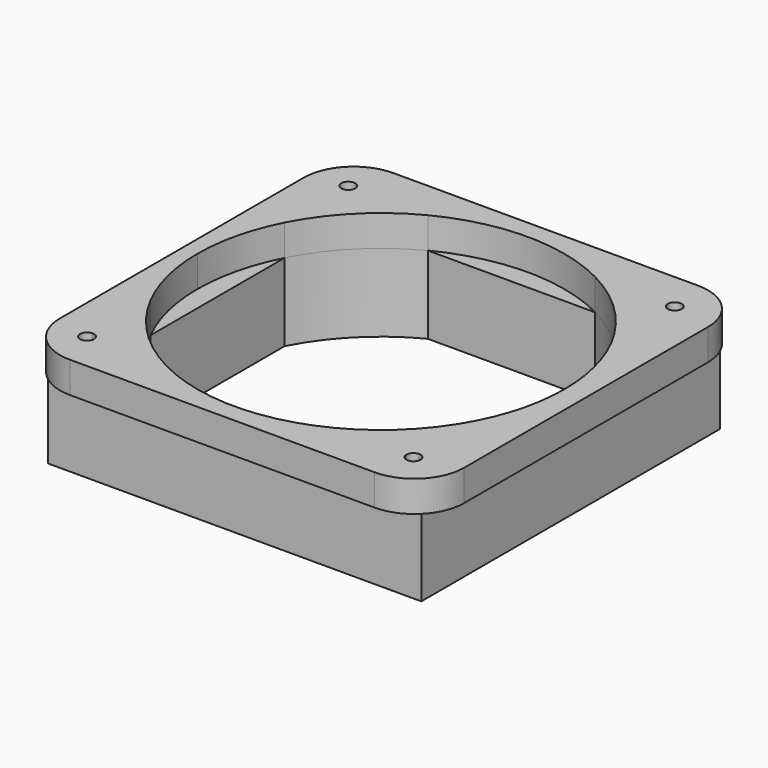
from build123d import *

# Parameters (mm, degrees)
F1_DEPTH = 25
F0_W     = 130
F0_H     = 130
F2_DEPTH = 10
F3_R     = 16


with BuildPart() as f1:
    # F0 (on Top) → F1 (new body)
    with BuildSketch(Plane.XY):
        Polygon((-59, -4.01e-08), (-59, -59.9999837577), (61, -59.9999837577), (61, 60.0000162423), (-59, 60.0000162423), align=None)
        with BuildLine():
            ThreePointArc((-52.5, -26.9211812519), (-57.351983396, -13.8473824436), (-59, -4.01e-08))
            ThreePointArc((-59, -4.01e-08), (-57.3519834055, 13.8473824047), (-52.5, 26.9211812519))
            Line((-52.5, 26.9211812519), (-52.5, 50.25))
            ThreePointArc((-52.5, 50.25), (-54.0909902577, 54.0909902577), (-50.25, 52.5))
            Line((-50.25, 52.5), (-26.9211812519, 52.5))
            ThreePointArc((-26.9211812519, 52.5), (0, 59), (26.9211812519, 52.5))
            Line((26.9211812519, 52.5), (50.25, 52.5))
            ThreePointArc((50.25, 52.5), (52.5, 54.75), (54.75, 52.5))
            ThreePointArc((54.75, 52.5), (54.0909902577, 50.9090097423), (52.5, 50.25))
            Line((52.5, 50.25), (52.5, 26.9211812519))
            ThreePointArc((52.5, 26.9211812519), (57.3519834008, 13.8473824241), (59, 0))
            ThreePointArc((59, 0), (57.3519834008, -13.8473824241), (52.5, -26.9211812519))
            Line((52.5, -26.9211812519), (52.5, -50.25))
            ThreePointArc((52.5, -50.25), (54.0909902577, -50.9090097423), (54.75, -52.5))
            ThreePointArc((54.75, -52.5), (52.5, -54.75), (50.25, -52.5))
            Line((50.25, -52.5), (26.9211812519, -52.5))
            ThreePointArc((26.9211812519, -52.5), (0, -59), (-26.9211812519, -52.5))
            Line((-26.9211812519, -52.5), (-50.25, -52.5))
            ThreePointArc((-50.25, -52.5), (-54.0909902577, -54.0909902577), (-52.5, -50.25))
            Line((-52.5, -50.25), (-52.5, -26.9211812519))
        make_face(mode=Mode.SUBTRACT)
        with BuildLine():
            Line((-52.5, 50.25), (-52.5, 26.9211812519))
            ThreePointArc((-52.5, 26.9211812519), (-41.71930009, 41.71930009), (-26.9211812519, 52.5))
            Line((-26.9211812519, 52.5), (-50.25, 52.5))
            ThreePointArc((-50.25, 52.5), (-50.9090097423, 50.9090097423), (-52.5, 50.25))
        make_face()
        with BuildLine():
            ThreePointArc((-26.9211812519, -52.5), (-41.71930009, -41.71930009), (-52.5, -26.9211812519))
            Line((-52.5, -26.9211812519), (-52.5, -50.25))
            ThreePointArc((-52.5, -50.25), (-50.9090097423, -50.9090097423), (-50.25, -52.5))
            Line((-50.25, -52.5), (-26.9211812519, -52.5))
        make_face()
        with BuildLine():
            Line((50.25, 52.5), (26.9211812519, 52.5))
            ThreePointArc((26.9211812519, 52.5), (41.71930009, 41.71930009), (52.5, 26.9211812519))
            Line((52.5, 26.9211812519), (52.5, 50.25))
            ThreePointArc((52.5, 50.25), (50.9090097423, 50.9090097423), (50.25, 52.5))
        make_face()
        with BuildLine():
            ThreePointArc((52.5, -26.9211812519), (41.71930009, -41.71930009), (26.9211812519, -52.5))
            Line((26.9211812519, -52.5), (50.25, -52.5))
            ThreePointArc((50.25, -52.5), (50.9090097423, -50.9090097423), (52.5, -50.25))
            Line((52.5, -50.25), (52.5, -26.9211812519))
        make_face()
        with BuildLine():
            Line((26.9211812519, -52.5), (-26.9211812519, -52.5))
            ThreePointArc((-26.9211812519, -52.5), (0, -59), (26.9211812519, -52.5))
        make_face()
        with BuildLine():
            ThreePointArc((26.9211812519, 52.5), (0, 59), (-26.9211812519, 52.5))
            Line((-26.9211812519, 52.5), (26.9211812519, 52.5))
        make_face()
        with BuildLine():
            ThreePointArc((59, 0), (57.3519834008, 13.8473824241), (52.5, 26.9211812519))
            Line((52.5, 26.9211812519), (52.5, -26.9211812519))
            ThreePointArc((52.5, -26.9211812519), (57.3519834008, -13.8473824241), (59, 0))
        make_face()
        with BuildLine():
            ThreePointArc((-52.5, 26.9211812519), (-57.3519834055, 13.8473824047), (-59, -4.01e-08))
            ThreePointArc((-59, -4.01e-08), (-57.351983396, -13.8473824436), (-52.5, -26.9211812519))
            Line((-52.5, -26.9211812519), (-52.5, 26.9211812519))
        make_face()
    extrude(amount=-F1_DEPTH)


with BuildPart() as f2:
    # F0 (on Top) → F2 (new body)
    with BuildSketch(Plane.XY):
        with Locations((1, 1.62423e-05)):
            Rectangle(F0_W, F0_H)
        Polygon((61, -59.9999837577), (-59, -59.9999837577), (-59, -4.01e-08), (-59, 60.0000162423), (61, 60.0000162423), align=None, mode=Mode.SUBTRACT)
        Polygon((-59, -4.01e-08), (-59, -59.9999837577), (61, -59.9999837577), (61, 60.0000162423), (-59, 60.0000162423), align=None)
        with BuildLine():
            ThreePointArc((-52.5, -26.9211812519), (-57.351983396, -13.8473824436), (-59, -4.01e-08))
            ThreePointArc((-59, -4.01e-08), (-57.3519834055, 13.8473824047), (-52.5, 26.9211812519))
            Line((-52.5, 26.9211812519), (-52.5, 50.25))
            ThreePointArc((-52.5, 50.25), (-54.0909902577, 54.0909902577), (-50.25, 52.5))
            Line((-50.25, 52.5), (-26.9211812519, 52.5))
            ThreePointArc((-26.9211812519, 52.5), (0, 59), (26.9211812519, 52.5))
            Line((26.9211812519, 52.5), (50.25, 52.5))
            ThreePointArc((50.25, 52.5), (52.5, 54.75), (54.75, 52.5))
            ThreePointArc((54.75, 52.5), (54.0909902577, 50.9090097423), (52.5, 50.25))
            Line((52.5, 50.25), (52.5, 26.9211812519))
            ThreePointArc((52.5, 26.9211812519), (57.3519834008, 13.8473824241), (59, 0))
            ThreePointArc((59, 0), (57.3519834008, -13.8473824241), (52.5, -26.9211812519))
            Line((52.5, -26.9211812519), (52.5, -50.25))
            ThreePointArc((52.5, -50.25), (54.0909902577, -50.9090097423), (54.75, -52.5))
            ThreePointArc((54.75, -52.5), (52.5, -54.75), (50.25, -52.5))
            Line((50.25, -52.5), (26.9211812519, -52.5))
            ThreePointArc((26.9211812519, -52.5), (0, -59), (-26.9211812519, -52.5))
            Line((-26.9211812519, -52.5), (-50.25, -52.5))
            ThreePointArc((-50.25, -52.5), (-54.0909902577, -54.0909902577), (-52.5, -50.25))
            Line((-52.5, -50.25), (-52.5, -26.9211812519))
        make_face(mode=Mode.SUBTRACT)
        with BuildLine():
            Line((-52.5, 50.25), (-52.5, 26.9211812519))
            ThreePointArc((-52.5, 26.9211812519), (-41.71930009, 41.71930009), (-26.9211812519, 52.5))
            Line((-26.9211812519, 52.5), (-50.25, 52.5))
            ThreePointArc((-50.25, 52.5), (-50.9090097423, 50.9090097423), (-52.5, 50.25))
        make_face()
        with BuildLine():
            Line((50.25, 52.5), (26.9211812519, 52.5))
            ThreePointArc((26.9211812519, 52.5), (41.71930009, 41.71930009), (52.5, 26.9211812519))
            Line((52.5, 26.9211812519), (52.5, 50.25))
            ThreePointArc((52.5, 50.25), (50.9090097423, 50.9090097423), (50.25, 52.5))
        make_face()
        with BuildLine():
            ThreePointArc((52.5, -26.9211812519), (41.71930009, -41.71930009), (26.9211812519, -52.5))
            Line((26.9211812519, -52.5), (50.25, -52.5))
            ThreePointArc((50.25, -52.5), (50.9090097423, -50.9090097423), (52.5, -50.25))
            Line((52.5, -50.25), (52.5, -26.9211812519))
        make_face()
        with BuildLine():
            ThreePointArc((-26.9211812519, -52.5), (-41.71930009, -41.71930009), (-52.5, -26.9211812519))
            Line((-52.5, -26.9211812519), (-52.5, -50.25))
            ThreePointArc((-52.5, -50.25), (-50.9090097423, -50.9090097423), (-50.25, -52.5))
            Line((-50.25, -52.5), (-26.9211812519, -52.5))
        make_face()
    extrude(amount=F2_DEPTH)

    # F3
    f3_edges = [f2.edges().sort_by_distance(p)[0] for p in [
        (-64, 65.000016, 5),
        (-64, -64.999984, 5),
        (66, -64.999984, 5),
        (66, 65.000016, 5),
    ]]
    fillet(f3_edges, radius=F3_R)


solid = Compound([f1.part, f2.part])
